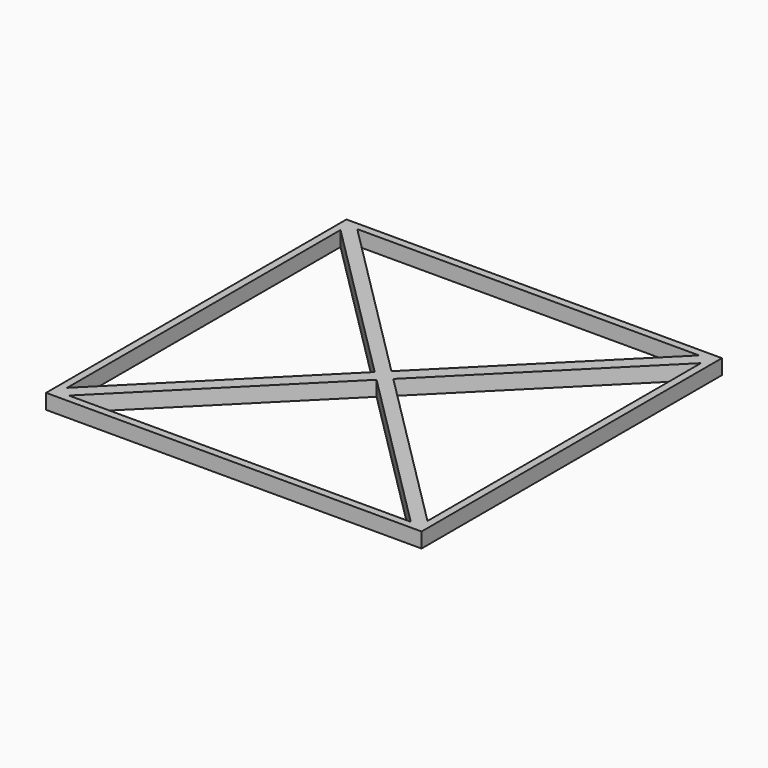
from build123d import *

# Parameters (mm, degrees)
F0_W     = 100
F0_H     = 100
F1_DEPTH = 4


with BuildPart() as f1:
    # F0 (on Top) → F1 (new body)
    with BuildSketch(Plane.XY):
        Rectangle(F0_W, F0_H)
        with BuildLine():
            Line((-49.2374368671, -46.7625631329), (-48, -45.5251262658))
            Line((-48, -45.5251262658), (-48, 45.5251262658))
            Line((-48, 45.5251262658), (-49.2374368671, 46.7625631329))
            ThreePointArc((-49.2374368671, 46.7625631329), (-49.2374368671, 49.2374368671), (-46.7625631329, 49.2374368671))
            Line((-46.7625631329, 49.2374368671), (-45.5251262658, 48))
            Line((-45.5251262658, 48), (45.5251262658, 48))
            Line((45.5251262658, 48), (46.7625631329, 49.2374368671))
            ThreePointArc((46.7625631329, 49.2374368671), (49.2374368671, 49.2374368671), (49.2374368671, 46.7625631329))
            Line((49.2374368671, 46.7625631329), (48, 45.5251262658))
            Line((48, 45.5251262658), (48, -45.5251262658))
            Line((48, -45.5251262658), (49.2374368671, -46.7625631329))
            ThreePointArc((49.2374368671, -46.7625631329), (49.2374368671, -49.2374368671), (46.7625631329, -49.2374368671))
            Line((46.7625631329, -49.2374368671), (45.5251262658, -48))
            Line((45.5251262658, -48), (-45.5251262658, -48))
            Line((-45.5251262658, -48), (-46.7625631329, -49.2374368671))
            ThreePointArc((-46.7625631329, -49.2374368671), (-49.2374368671, -49.2374368671), (-49.2374368671, -46.7625631329))
        make_face(mode=Mode.SUBTRACT)
        with BuildLine():
            Line((-49.2374368671, 46.7625631329), (-48, 45.5251262658))
            Line((-48, 45.5251262658), (-48, 48))
            Line((-48, 48), (-45.5251262658, 48))
            Line((-45.5251262658, 48), (-46.7625631329, 49.2374368671))
            ThreePointArc((-46.7625631329, 49.2374368671), (-49.2374368671, 49.2374368671), (-49.2374368671, 46.7625631329))
        make_face()
        Polygon((-48, 48), (-48, 45.5251262658), (-2.4748737342, 0), (-1.2374368671, 1.2374368671), align=None)
        Polygon((-45.5251262658, 48), (-48, 48), (-1.2374368671, 1.2374368671), (0, 2.4748737342), align=None)
        Polygon((0, 2.4748737342), (1.2374368671, 1.2374368671), (48, 48), (45.5251262658, 48), align=None)
        Polygon((48, 48), (1.2374368671, 1.2374368671), (2.4748737342, 0), (48, 45.5251262658), align=None)
        Polygon((-1.2374368671, 1.2374368671), (0, 0), (1.2374368671, 1.2374368671), (0, 2.4748737342), align=None)
        Polygon((1.2374368671, 1.2374368671), (0, 0), (1.2374368671, -1.2374368671), (2.4748737342, 0), align=None)
        Polygon((0, 0), (-1.2374368671, -1.2374368671), (0, -2.4748737342), (1.2374368671, -1.2374368671), align=None)
        Polygon((-2.4748737342, 0), (-1.2374368671, -1.2374368671), (0, 0), (-1.2374368671, 1.2374368671), align=None)
        with BuildLine():
            Line((-45.5251262658, -48), (-48, -48))
            Line((-48, -48), (-48, -45.5251262658))
            Line((-48, -45.5251262658), (-49.2374368671, -46.7625631329))
            ThreePointArc((-49.2374368671, -46.7625631329), (-49.2374368671, -49.2374368671), (-46.7625631329, -49.2374368671))
            Line((-46.7625631329, -49.2374368671), (-45.5251262658, -48))
        make_face()
        with BuildLine():
            Line((48, -48), (45.5251262658, -48))
            Line((45.5251262658, -48), (46.7625631329, -49.2374368671))
            ThreePointArc((46.7625631329, -49.2374368671), (49.2374368671, -49.2374368671), (49.2374368671, -46.7625631329))
            Line((49.2374368671, -46.7625631329), (48, -45.5251262658))
            Line((48, -45.5251262658), (48, -48))
        make_face()
        with BuildLine():
            Line((45.5251262658, 48), (48, 48))
            Line((48, 48), (48, 45.5251262658))
            Line((48, 45.5251262658), (49.2374368671, 46.7625631329))
            ThreePointArc((49.2374368671, 46.7625631329), (49.2374368671, 49.2374368671), (46.7625631329, 49.2374368671))
            Line((46.7625631329, 49.2374368671), (45.5251262658, 48))
        make_face()
        Polygon((-48, -45.5251262658), (-48, -48), (-1.2374368671, -1.2374368671), (-2.4748737342, 0), align=None)
        Polygon((0, -2.4748737342), (45.5251262658, -48), (48, -48), (1.2374368671, -1.2374368671), align=None)
        Polygon((-1.2374368671, -1.2374368671), (-48, -48), (-45.5251262658, -48), (0, -2.4748737342), align=None)
        Polygon((1.2374368671, -1.2374368671), (48, -48), (48, -45.5251262658), (2.4748737342, 0), align=None)
    extrude(amount=F1_DEPTH)


solid = f1.part
